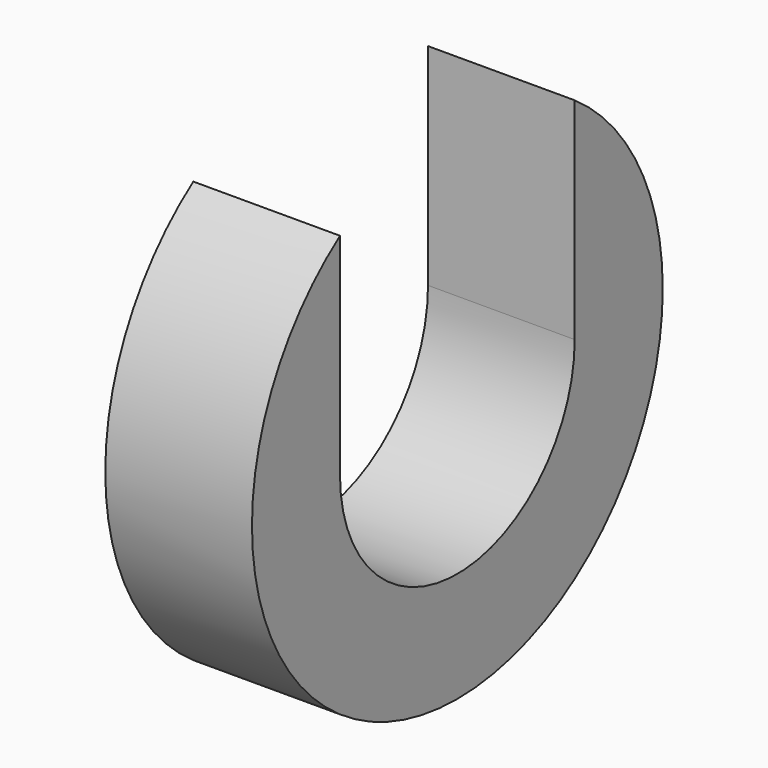
from build123d import *

# Parameters (mm, degrees)
F1_DEPTH = 1


with BuildPart() as f1:
    # F0 (on Right) → F1 (new body)
    with BuildSketch(Plane.YZ):
        with BuildLine():
            Line((-1, 0), (-1, 1.436141))
            ThreePointArc((-1, 1.436141), (0, -1.75), (1, 1.436141))
            Line((1, 1.436141), (1, 0))
            ThreePointArc((1, 0), (0, -1), (-1, 0))
        make_face()
    extrude(amount=F1_DEPTH)


solid = f1.part
